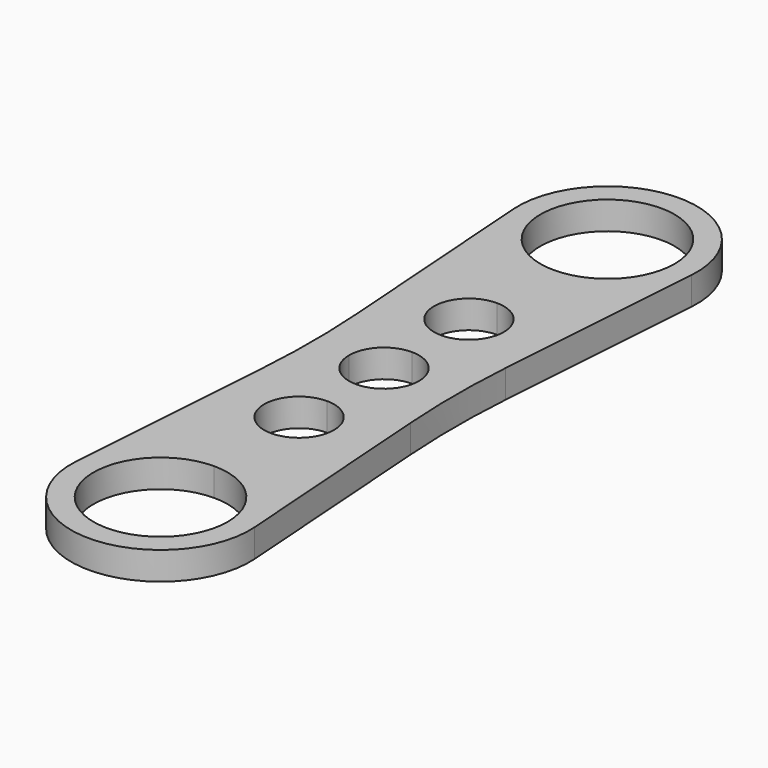
from build123d import *

# Parameters (mm, degrees)
F1_DEPTH = 1


with BuildPart() as f1:
    # F0 (on Top) → F1 (new body)
    with BuildSketch(Plane.XY):
        with BuildLine():
            ThreePointArc((0, 2.4), (-1.697056, -1.697056), (2.4, 0))
            ThreePointArc((2.4, 0), (1.697056, 1.697056), (0, 2.4))
        make_face()
        with BuildLine():
            ThreePointArc((2.4, 20), (-1.697056, 21.697056), (0, 17.6))
            ThreePointArc((0, 17.6), (1.697056, 18.302944), (2.4, 20))
        make_face()
        with BuildLine():
            Line((-2.650008, 7.881272), (-3.19201, 0.225998))
            ThreePointArc((-3.19201, 0.225998), (0, -3.2), (3.19201, 0.225998))
            Line((3.19201, 0.225998), (2.650008, 7.881272))
            ThreePointArc((2.650008, 7.881272), (2.575098, 10), (2.650008, 12.118728))
            Line((2.650008, 12.118728), (3.19201, 19.774002))
            ThreePointArc((3.19201, 19.774002), (0, 23.2), (-3.19201, 19.774002))
            Line((-3.19201, 19.774002), (-2.650008, 12.118728))
            ThreePointArc((-2.650008, 12.118728), (-2.575098, 10), (-2.650008, 7.881272))
        make_face()
        with BuildLine():
            ThreePointArc((0, 2.4), (1.697056, 1.697056), (2.4, 0))
            ThreePointArc((2.4, 0), (-1.697056, -1.697056), (0, 2.4))
        make_face(mode=Mode.SUBTRACT)
        with BuildLine():
            ThreePointArc((1.25, 6.2), (0.883883, 5.316117), (0, 4.95))
            ThreePointArc((0, 4.95), (-1.25, 6.2), (0, 7.45))
            ThreePointArc((0, 7.45), (0.883883, 7.083883), (1.25, 6.2))
        make_face(mode=Mode.SUBTRACT)
        with BuildLine():
            ThreePointArc((1.25, 10), (0.883883, 9.116117), (0, 8.75))
            ThreePointArc((0, 8.75), (-0.883883, 9.116117), (-1.25, 10))
            ThreePointArc((-1.25, 10), (-0.883883, 10.883883), (0, 11.25))
            ThreePointArc((0, 11.25), (0.883883, 10.883883), (1.25, 10))
        make_face(mode=Mode.SUBTRACT)
        with BuildLine():
            ThreePointArc((1.25, 13.8), (0.883883, 12.916117), (0, 12.55))
            ThreePointArc((0, 12.55), (-1.25, 13.8), (0, 15.05))
            ThreePointArc((0, 15.05), (0.883883, 14.683883), (1.25, 13.8))
        make_face(mode=Mode.SUBTRACT)
        with BuildLine():
            ThreePointArc((2.4, 20), (1.697056, 18.302944), (0, 17.6))
            ThreePointArc((0, 17.6), (-1.697056, 21.697056), (2.4, 20))
        make_face(mode=Mode.SUBTRACT)
    extrude(amount=F1_DEPTH)


solid = f1.part
